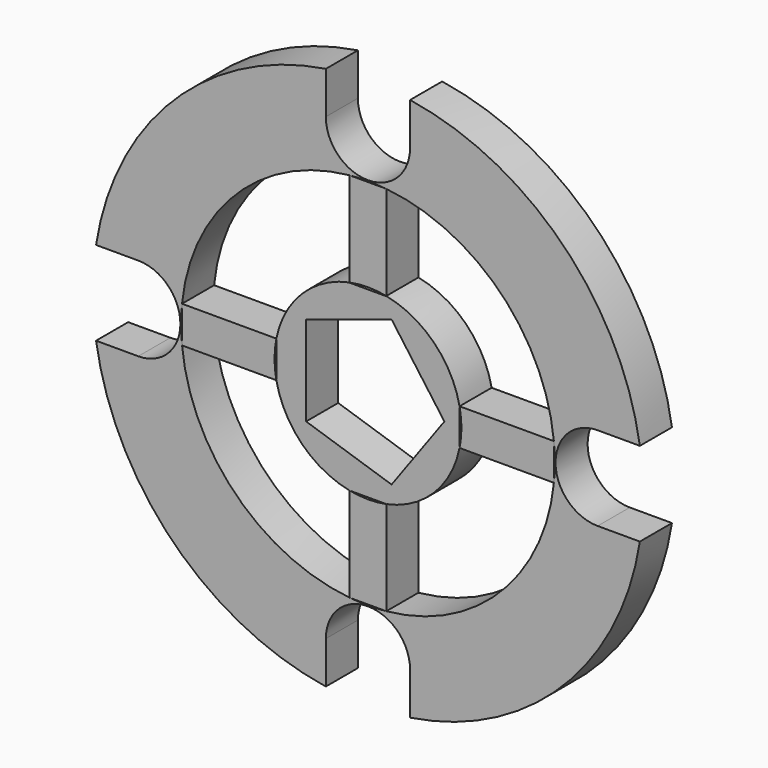
from build123d import *

# Parameters (mm, degrees)
F1_DEPTH = 5
F0_R     = 34.29
F3_DEPTH = 5.001
F5_DEPTH = 5.001


with BuildPart() as f1:
    # F0 (on Front) → F1 (new body)
    with BuildSketch(Plane.XZ):
        with BuildLine():
            ThreePointArc((-11.4150167226, -2.286), (-11.6416666667, 0), (-11.4150167226, 2.286))
            Line((-11.4150167226, 2.286), (-23.1708397584, 2.286))
            Line((-23.1708397584, 2.286), (-23.1708397584, -2.286))
            Line((-23.1708397584, -2.286), (-11.4150167226, -2.286))
        make_face()
    extrude(amount=F1_DEPTH)


with BuildPart() as f1b:
    # F0 (on Front) → F1, piece 2 (new body)
    with BuildSketch(Plane.XZ):
        with BuildLine():
            Line((11.4150167226, -2.286), (11.4150167226, 2.286))
            ThreePointArc((11.4150167226, 2.286), (8.2319014443, 8.2319014443), (2.286, 11.4150167226))
            Line((2.286, 11.4150167226), (2.286, 11.3852397584))
            Line((2.286, 11.3852397584), (-2.286, 11.3852397584))
            Line((-2.286, 11.3852397584), (-2.286, 11.4150167226))
            ThreePointArc((-2.286, 11.4150167226), (-8.2319014443, 8.2319014443), (-11.4150167226, 2.286))
            Line((-11.4150167226, 2.286), (-11.4150167226, -2.286))
            ThreePointArc((-11.4150167226, -2.286), (-8.2319014443, -8.2319014443), (-2.286, -11.4150167226))
            Line((-2.286, -11.4150167226), (2.286, -11.4150167226))
            ThreePointArc((2.286, -11.4150167226), (8.2319014443, -8.2319014443), (11.4150167226, -2.286))
        make_face()
    extrude(amount=F1_DEPTH)

    # F4 (on face) → F5 (cut, through all)
    with BuildSketch(Plane.XZ.offset(5)):
        Polygon((2.9433868714, -9.0588133177), (9.525, 0), (2.9433868714, 9.0588133177), (-7.7058868714, 5.5986545281), (-7.7058868714, -5.5986545281), align=None)
    extrude(amount=-F5_DEPTH, mode=Mode.SUBTRACT)


with BuildPart() as f1c:
    # F0 (on Front) → F1, piece 3 (new body)
    with BuildSketch(Plane.XZ):
        with BuildLine():
            ThreePointArc((-2.286, 11.4150167226), (0, 11.6416666667), (2.286, 11.4150167226))
            Line((2.286, 11.4150167226), (2.286, 23.1708397584))
            Line((2.286, 23.1708397584), (-2.286, 23.1708397584))
            Line((-2.286, 23.1708397584), (-2.286, 11.4150167226))
        make_face()
    extrude(amount=F1_DEPTH)


with BuildPart() as f1d:
    # F0 (on Front) → F1, piece 4 (new body)
    with BuildSketch(Plane.XZ):
        with BuildLine():
            ThreePointArc((11.4150167226, 2.286), (11.5848656112, 1.1486041743), (11.6416666667, 0))
            ThreePointArc((11.6416666667, 0), (11.5848656112, -1.1486041743), (11.4150167226, -2.286))
            Line((11.4150167226, -2.286), (23.1708397584, -2.286))
            Line((23.1708397584, -2.286), (23.1708397584, 2.286))
            Line((23.1708397584, 2.286), (11.4150167226, 2.286))
        make_face()
    extrude(amount=F1_DEPTH)


with BuildPart() as f1e:
    # F0 (on Front) → F1, piece 5 (new body)
    with BuildSketch(Plane.XZ):
        with BuildLine():
            Line((2.286, -23.1708397584), (2.286, -11.4150167226))
            ThreePointArc((2.286, -11.4150167226), (0, -11.6416666667), (-2.286, -11.4150167226))
            Line((-2.286, -11.4150167226), (-2.286, -23.1708397584))
            Line((-2.286, -23.1708397584), (2.286, -23.1708397584))
        make_face()
    extrude(amount=F1_DEPTH)


with BuildPart() as f1f:
    # F0 (on Front) → F1, piece 6 (new body)
    with BuildSketch(Plane.XZ):
        Circle(F0_R)
        with BuildLine():
            ThreePointArc((2.286, 23.1708397584), (16.4638028886, 16.4638028886), (23.1708397584, 2.286))
            ThreePointArc((23.1708397584, 2.286), (23.2551929343, 1.1443831094), (23.2833333333, 0))
            ThreePointArc((23.2833333333, 0), (23.2551929343, -1.1443831094), (23.1708397584, -2.286))
            ThreePointArc((23.1708397584, -2.286), (16.4638028886, -16.4638028886), (2.286, -23.1708397584))
            ThreePointArc((2.286, -23.1708397584), (0, -23.2833333333), (-2.286, -23.1708397584))
            ThreePointArc((-2.286, -23.1708397584), (-16.4638028886, -16.4638028886), (-23.1708397584, -2.286))
            ThreePointArc((-23.1708397584, -2.286), (-23.2833333333, 0), (-23.1708397584, 2.286))
            ThreePointArc((-23.1708397584, 2.286), (-16.4638028886, 16.4638028886), (-2.286, 23.1708397584))
            ThreePointArc((-2.286, 23.1708397584), (0, 23.2833333333), (2.286, 23.1708397584))
        make_face(mode=Mode.SUBTRACT)
    extrude(amount=F1_DEPTH)

    # F2 (on face) → F3 (cut, through all)
    with BuildSketch(Plane.XZ.offset(5)):
        with BuildLine():
            Line((28.6253821723, -5.25), (33.8857138039, -5.25))
            ThreePointArc((33.8857138039, -5.25), (34.1887790535, -2.6327717015), (34.29, 0))
            ThreePointArc((34.29, 0), (34.1887790535, 2.6327717015), (33.8857138039, 5.25))
            Line((33.8857138039, 5.25), (28.6253821723, 5.25))
            ThreePointArc((28.6253821723, 5.25), (23.3753821723, 0), (28.6253821723, -5.25))
        make_face()
        with BuildLine():
            Line((5.25, -33.8857138039), (5.25, -28.6253821723))
            ThreePointArc((5.25, -28.6253821723), (0, -23.3753821723), (-5.25, -28.6253821723))
            Line((-5.25, -28.6253821723), (-5.25, -33.8857138039))
            ThreePointArc((-5.25, -33.8857138039), (0, -34.29), (5.25, -33.8857138039))
        make_face()
        with BuildLine():
            ThreePointArc((-33.8857138039, 5.25), (-34.29, 0), (-33.8857138039, -5.25))
            Line((-33.8857138039, -5.25), (-28.6253821723, -5.25))
            ThreePointArc((-28.6253821723, -5.25), (-23.3753821723, 0), (-28.6253821723, 5.25))
            Line((-28.6253821723, 5.25), (-33.8857138039, 5.25))
        make_face()
        with BuildLine():
            ThreePointArc((5.25, 33.8857138039), (0, 34.29), (-5.25, 33.8857138039))
            Line((-5.25, 33.8857138039), (-5.25, 28.6253821723))
            ThreePointArc((-5.25, 28.6253821723), (0, 23.3753821723), (5.25, 28.6253821723))
            Line((5.25, 28.6253821723), (5.25, 33.8857138039))
        make_face()
    extrude(amount=-F3_DEPTH, mode=Mode.SUBTRACT)


solid = Compound([f1.part, f1b.part, f1c.part, f1d.part, f1e.part, f1f.part])
